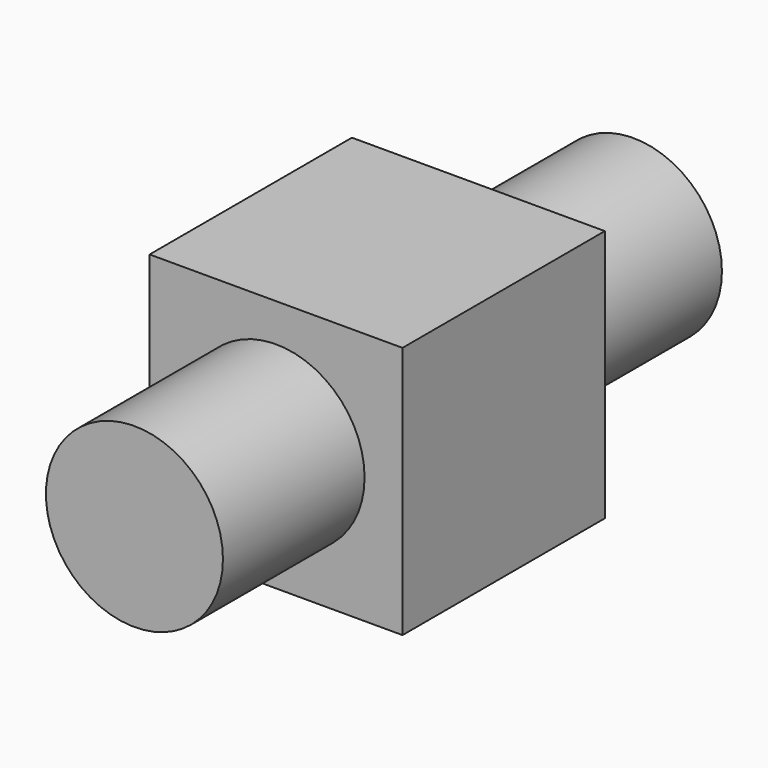
from build123d import *

# Parameters (mm, degrees)
F0_W          = 100
F0_H          = 100
F1_DEPTH      = 100
F2_R          = 35
F3_DEPTH      = 170
F4_R          = 35
F5_DEPTH      = 161.955625
F5_DEPTH_BACK = 76.630928
F6_R          = 35
F7_DEPTH      = 1320.8


with BuildPart() as f1:
    # F0 (on Front) → F1 (new body)
    with BuildSketch(Plane.XZ):
        Rectangle(F0_W, F0_H)
    extrude(amount=F1_DEPTH)

    # F2 (on Front) → F3 (join)
    with BuildSketch(Plane.XZ):
        Circle(F2_R)
    extrude(amount=F3_DEPTH)

    # F4 (on Front) → F5 (join, two sides)
    with BuildSketch(Plane.XZ) as f5_sk:
        Circle(F4_R)
    extrude(amount=F5_DEPTH)
    extrude(f5_sk.sketch, amount=-F5_DEPTH_BACK)

    # F6 (on Right) → F7 (cut)
    with BuildSketch(Plane.YZ):
        with Locations((-34.9987, 0.301605)):
            Circle(F6_R)
    extrude(amount=-F7_DEPTH, mode=Mode.SUBTRACT)


solid = f1.part
